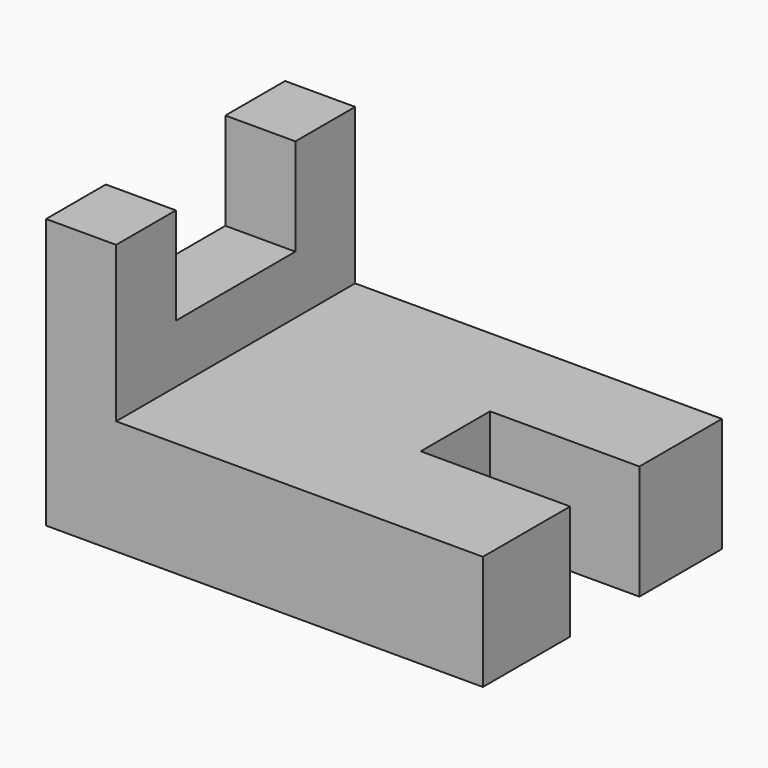
from build123d import *

# Parameters (mm, degrees)
F1_DEPTH = 25.4
F2_W     = 5.954736
F2_H     = 12.7
F3_DEPTH = 8.255
F4_W     = 7.362218
F4_H     = 9.744114
F5_DEPTH = 12.7


with BuildPart() as f1:
    # F0 (on Front) → F1 (new body)
    with BuildSketch(Plane.XZ):
        Polygon((0, 22.952802), (0, 0), (37.135903, 0), (37.135903, 9.744114), (5.954736, 9.744114), (5.954736, 22.952802), align=None)
    extrude(amount=F1_DEPTH)

    # F2 (on face) → F3 (cut, symmetric)
    with BuildSketch(Plane.XY.offset(22.952802)):
        with Locations((2.977368, -12.7)):
            Rectangle(F2_W, F2_H)
    extrude(amount=F3_DEPTH, both=True, mode=Mode.SUBTRACT)

    # F4 (on face) → F5 (cut, symmetric)
    with BuildSketch(Plane.YZ.offset(37.135903)):
        with Locations((-12.450812, 4.872057)):
            Rectangle(F4_W, F4_H)
    extrude(amount=F5_DEPTH, both=True, mode=Mode.SUBTRACT)


solid = f1.part
